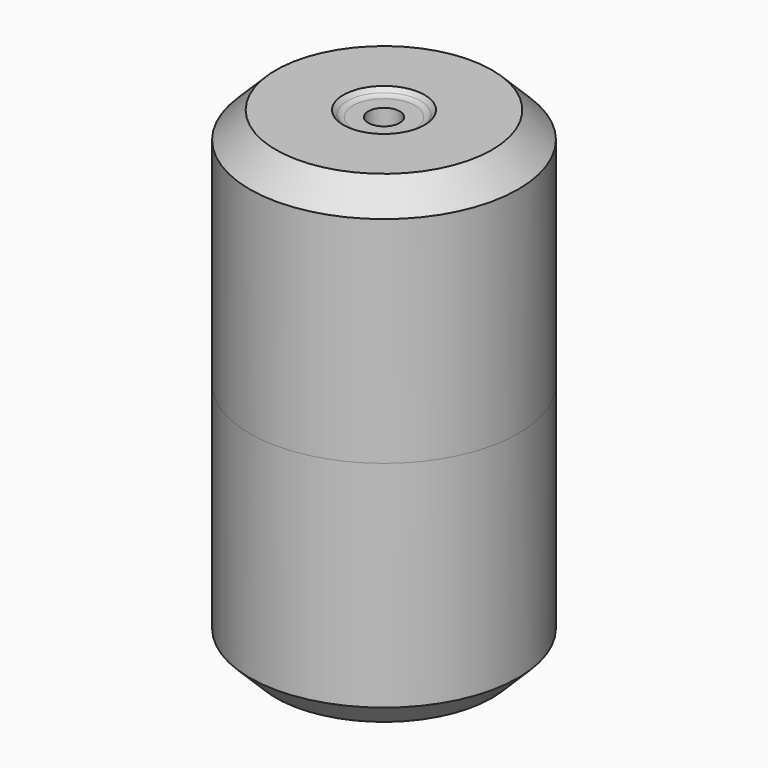
from build123d import *

# Parameters (mm, degrees)
F2_W = 33.6
F2_H = 15.6
F4_R = 1


with BuildPart() as f1:
    # F0 (on Front) → F1 (revolve)
    with BuildSketch(Plane.XZ):
        with BuildLine():
            Line((3, 44.8), (3, 0))
            Line((3, 0), (25.6, 0))
            Line((25.6, 0), (25.6, 41))
            Line((25.6, 41), (20.6, 46))
            Line((20.6, 46), (7.75, 46))
            Line((7.75, 46), (6.9893398282, 45.2393398282))
            ThreePointArc((6.9893398282, 45.2393398282), (6.502704805, 44.9141807012), (5.9286796564, 44.8))
            Line((5.9286796564, 44.8), (3, 44.8))
        make_face()
    revolve(axis=Axis((0, 0, -6.1797830276), (0, 0, -1)))

    # F2 (on Front) → F3 (revolve, cut)
    with BuildSketch(Plane.XZ):
        with Locations((-8.8, 28.5)):
            Rectangle(F2_W, F2_H)
    revolve(axis=Axis((-34.5689574801, 0, 20.7), (-1, 0, 0)), mode=Mode.SUBTRACT)

    # F4
    f4_edges = [f1.edges().sort_by_distance(p)[0] for p in [
        (8, 0, 5.1),
    ]]
    fillet(f4_edges, radius=F4_R)

    # F5: F1 across plane


with BuildPart() as f1_1:
    add(f1.part)
    add(f1.part.mirror(Plane.XY))


solid = f1_1.part
